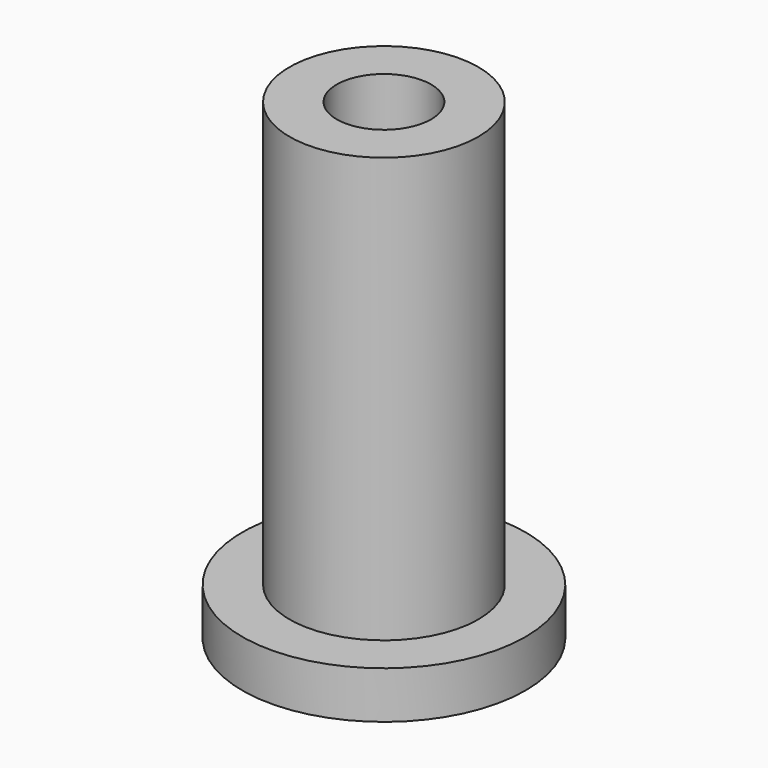
from build123d import *

# Parameters (mm, degrees)
CIRCLE002_R      = 3
EXTRUDE002_DEPTH = 1
CIRCLE_R         = 1
EXTRUDE_DEPTH    = 11
CIRCLE001_R      = 2
EXTRUDE001_DEPTH = 10


with BuildPart() as ext_foot:
    # Circle002 → Extrude002 (new body)
    with BuildSketch(Plane.XY):
        Circle(CIRCLE002_R)
    extrude(amount=EXTRUDE002_DEPTH)


with BuildPart() as ext_inner:
    # Circle → Extrude (new body)
    with BuildSketch(Plane.XY):
        Circle(CIRCLE_R)
    extrude(amount=EXTRUDE_DEPTH)


with BuildPart() as anti_flex:
    # Circle001 → Extrude001 (new body)
    with BuildSketch(Plane.XY):
        Circle(CIRCLE001_R)
    extrude(amount=EXTRUDE001_DEPTH)

    # Cut: cut ext_inner
    add(ext_inner.part, mode=Mode.SUBTRACT)

    # Fusion: union ext_foot
    add(ext_foot.part)


solid = anti_flex.part
